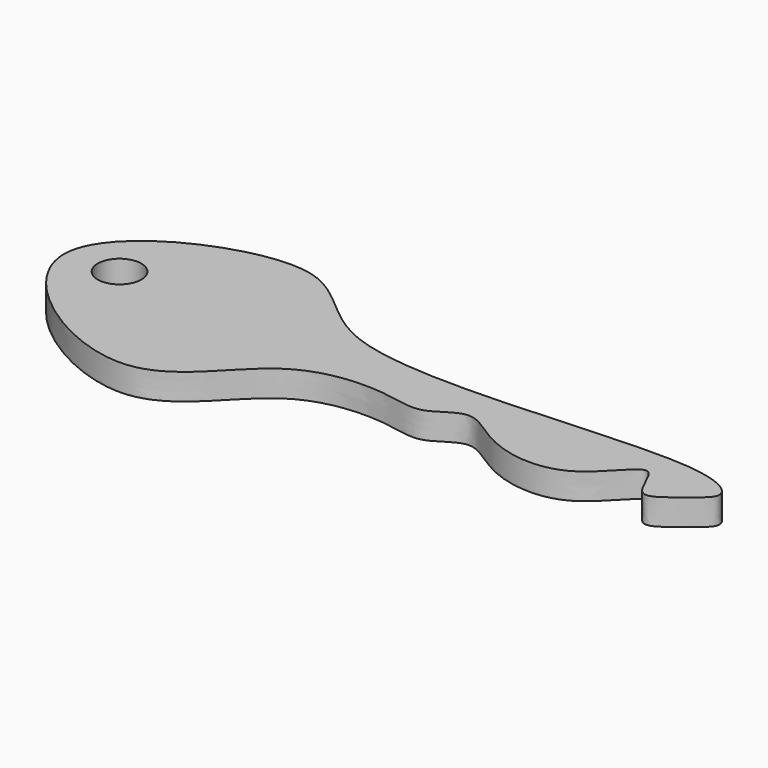
from build123d import *

# Parameters (mm, degrees)
F0_R     = 2.54
F1_DEPTH = 3.048


with BuildPart() as f1:
    # F0 (on Top) → F1 (new body)
    with BuildSketch(Plane.XY):
        with BuildLine():
            add(Edge.make_bspline(
                [(-18.5697288196, 22.8531227986), (-25.0463867028, 23.6525227872), (-48.8977855543, 13.120372523), (-17.4604211228, -8.378704025), (-9.3901495819, 8.3975991771), (2.5801791779, 8.872594285), (7.3743442216, 7.0784684636), (11.3581529843, 11.2090971204), (16.03427746, 6.3117704568), (26.0059981151, 5.0037204073), (31.1242189471, 14.2769781963), (32.6948302102, 5.9401399566), (36.5560056476, 9.5320200614), (40.2323412165, 11.9068243753), (32.7804571912, 16.900773031), (-8.7600783767, 9.4337419547), (-13.1495387412, 22.1841203648), (-18.5697288196, 22.8531227986)],
                knots=[0, 0, 0, 0, 0.0988693585, 0.1995828928, 0.2805216687, 0.3499227811, 0.3960633124, 0.4393292464, 0.4899271353, 0.5550462368, 0.609925014, 0.6537753849, 0.6948935323, 0.733573631, 0.78394615, 0.9172581406, 1, 1, 1, 1], degree=3))
        make_face()
        with Locations((-31.2463641167, 12.0836282149)):
            Circle(F0_R, mode=Mode.SUBTRACT)
    extrude(amount=F1_DEPTH)


solid = f1.part
